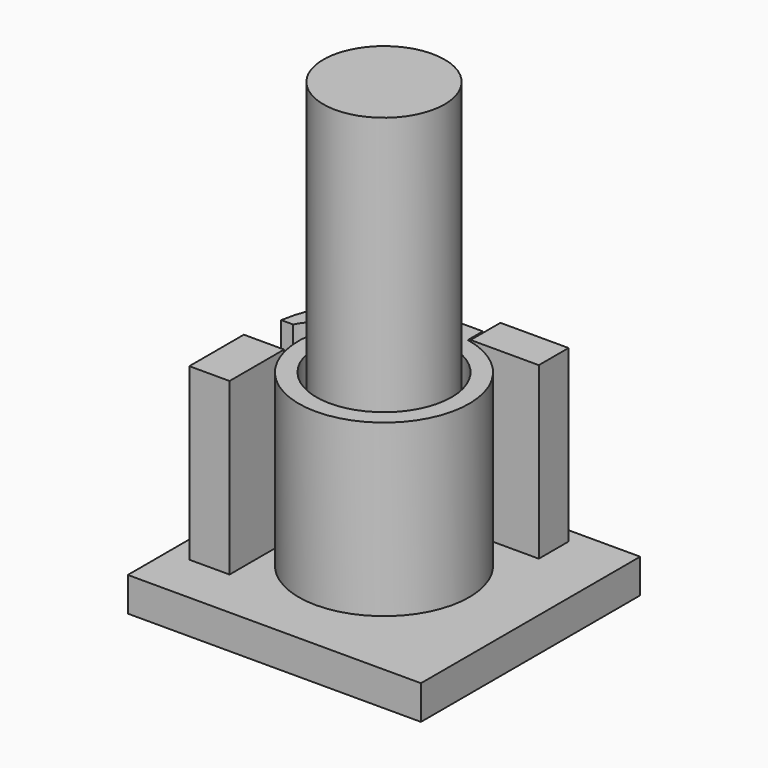
from build123d import *

# Parameters (mm, degrees)
F1_DEPTH  = 10
F3_DEPTH  = 10
F2_W      = 4
F2_H      = 2.1826629527
F2_W_2    = 2.3604612797
F2_H_2    = 4
F4_R      = 3.9673771718
F5_DEPTH  = 25
F6_W      = 17.2031465918
F6_H      = 16.0824917257
F7_DEPTH  = 2
F8_R      = 3.5591026494
F9_DEPTH  = 15
F11_DEPTH = 10
F12_W     = 2
F12_H     = 8
F13_DEPTH = 1.1
F14_DEPTH = 25


with BuildPart() as f1:
    # F0 (on Top) → F1 (new body)
    with BuildSketch(Plane.XY):
        with BuildLine():
            ThreePointArc((-1, 4.8989794856), (-3.1622776602, -3.8729833462), (5, 0))
            ThreePointArc((5, 0), (3.8729833462, 3.1622776602), (1, 4.8989794856))
            ThreePointArc((1, 4.8989794856), (0, 5), (-1, 4.8989794856))
        make_face()
        with BuildLine():
            ThreePointArc((-1, 4.8989794856), (0, 5), (1, 4.8989794856))
            Line((1, 4.8989794856), (1, 6))
            Line((1, 6), (-1, 6))
            Line((-1, 6), (-1, 4.8989794856))
        make_face()
    extrude(amount=F1_DEPTH)

    # F4 (on face) → F5 (cut)
    with BuildSketch(Plane(origin=(0, 0, 0), x_dir=(1, 0, 0), z_dir=(0, 0, -1))):
        Circle(F4_R)
    extrude(amount=-F5_DEPTH, mode=Mode.SUBTRACT)

    # F12 (on face) → F13 (cut)
    with BuildSketch(Plane(origin=(0, 6, 0), x_dir=(-1, 0, 0), z_dir=(0, 1, 0))):
        with Locations((0, 4)):
            Rectangle(F12_W, F12_H)
    extrude(amount=-F13_DEPTH, mode=Mode.SUBTRACT)


with BuildPart() as f3:
    # F2 (on Top) → F3 (new body)
    with BuildSketch(Plane.XY):
        with BuildLine():
            ThreePointArc((-5.1334686129, 1.1), (-3.7123106012, 3.7123106012), (-1.1, 5.1334686129))
            Line((-1.1, 5.1334686129), (-1.1, 6.9130311731))
            ThreePointArc((-1.1, 6.9130311731), (-4.9497474683, 4.9497474683), (-6.9130311731, 1.1))
            Line((-6.9130311731, 1.1), (-5.1334686129, 1.1))
        make_face()
    extrude(amount=F3_DEPTH)

    # F6 (on Top) → F7 (join)
    with BuildSketch(Plane.XY):
        Rectangle(F6_W, F6_H)
    extrude(amount=-F7_DEPTH)

    # F8 (on face) → F9 (cut)
    with BuildSketch(Plane.XY):
        Circle(F8_R)
    extrude(amount=-F9_DEPTH, mode=Mode.SUBTRACT)

    # F10 (on face) → F11 (cut)
    with BuildSketch(Plane.XY.offset(10)):
        with BuildLine():
            Line((-1.1, 1.1), (-1.1, 5.5130311731))
            ThreePointArc((-1.1, 5.5130311731), (-1.6069363441, 5.3871391574), (-2.1, 5.2147399471))
            ThreePointArc((-2.1, 5.2147399471), (-3.9751423066, 3.9751423066), (-5.2147399471, 2.1))
            ThreePointArc((-5.2147399471, 2.1), (-5.3871391574, 1.6069363441), (-5.5130311731, 1.1))
            Line((-5.5130311731, 1.1), (-1.1, 1.1))
        make_face()
        with BuildLine():
            ThreePointArc((-2.1, 5.2147399471), (-1.6069363441, 5.3871391574), (-1.1, 5.5130311731))
            Line((-1.1, 5.5130311731), (-1.1, 6.2130311731))
            ThreePointArc((-1.1, 6.2130311731), (-1.6910985907, 5.8051400841), (-2.1, 5.2147399471))
        make_face()
        with BuildLine():
            ThreePointArc((-5.5130311731, 1.1), (-5.3871391574, 1.6069363441), (-5.2147399471, 2.1))
            ThreePointArc((-5.2147399471, 2.1), (-5.8051400841, 1.6910985907), (-6.2130311731, 1.1))
            Line((-6.2130311731, 1.1), (-5.5130311731, 1.1))
        make_face()
    extrude(amount=-F11_DEPTH, mode=Mode.SUBTRACT)


with BuildPart() as f3b:
    # F2 (on Top) → F3, piece 2 (new body)
    with BuildSketch(Plane.XY):
        with Locations((3.1, 6.073639961)):
            Rectangle(F2_W, F2_H)
        with Locations((3.1, 6.073639961)):
            Rectangle(F2_W, F2_H)
    extrude(amount=F3_DEPTH)


with BuildPart() as f3c:
    # F2 (on Top) → F3, piece 3 (new body)
    with BuildSketch(Plane.XY):
        with Locations((-6.1654057354, -3.1)):
            Rectangle(F2_W_2, F2_H_2)
    extrude(amount=F3_DEPTH)


with BuildPart() as f14:
    # F8 (on face) → F14 (new body)
    with BuildSketch(Plane.XY):
        Circle(F8_R)
    extrude(amount=F14_DEPTH)


solid = Compound([f1.part, f3.part, f3b.part, f3c.part, f14.part])
